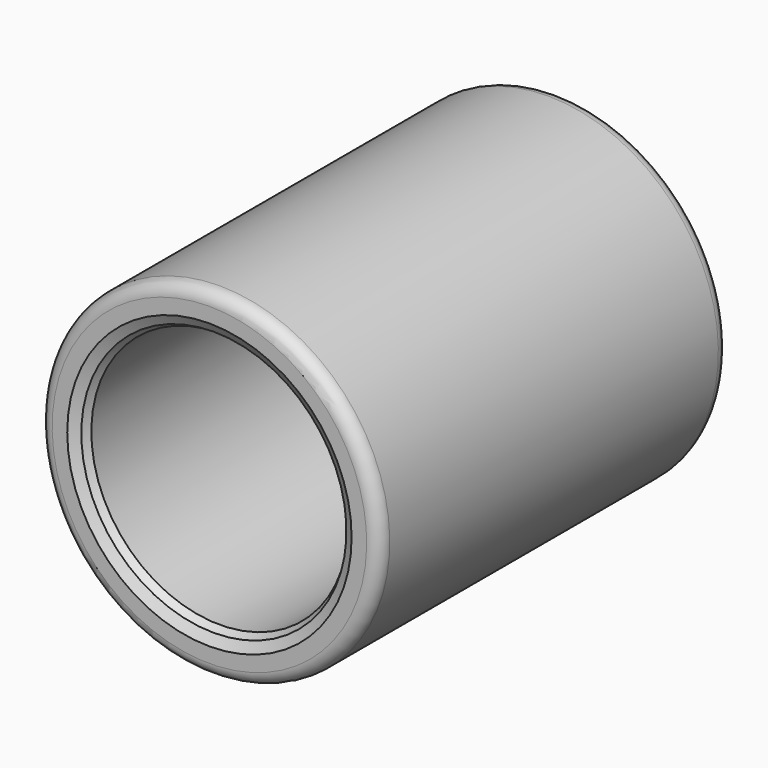
from build123d import *

# Parameters (mm, degrees)
F0_W     = 34
F0_H     = 3.25
F2_SIZE2 = 0.5773502692
F2_SIZE  = 1
F3_SIZE2 = 0.5
F3_SIZE  = 0.5
F4_R     = 1


with BuildPart() as f1:
    # F0 (on Right) → F1 (revolve)
    with BuildSketch(Plane.YZ):
        with Locations((0, 11.625)):
            Rectangle(F0_W, F0_H)
    revolve(axis=Axis((0, 0.0117017189, 0), (0, 1, 0)))

    # F2
    f2_edges = [f1.edges().sort_by_distance(p)[0] for p in [
        (0, -17, -10),
        (0, 17, -10),
    ]]
    f2_side = f1.faces().sort_by_distance((0, 0, -10))[0]
    chamfer(f2_edges, length=F2_SIZE, length2=F2_SIZE2, reference=f2_side)

    # F3
    f3_edges = [f1.edges().sort_by_distance(p)[0] for p in [
        (0, -17, -10.57735),
        (0, 17, -10.57735),
    ]]
    chamfer(f3_edges, length=F3_SIZE, length2=F3_SIZE2)

    # F4
    f4_edges = [f1.edges().sort_by_distance(p)[0] for p in [
        (0, 17, -13.25),
        (0, -17, -13.25),
    ]]
    fillet(f4_edges, radius=F4_R)


solid = f1.part
